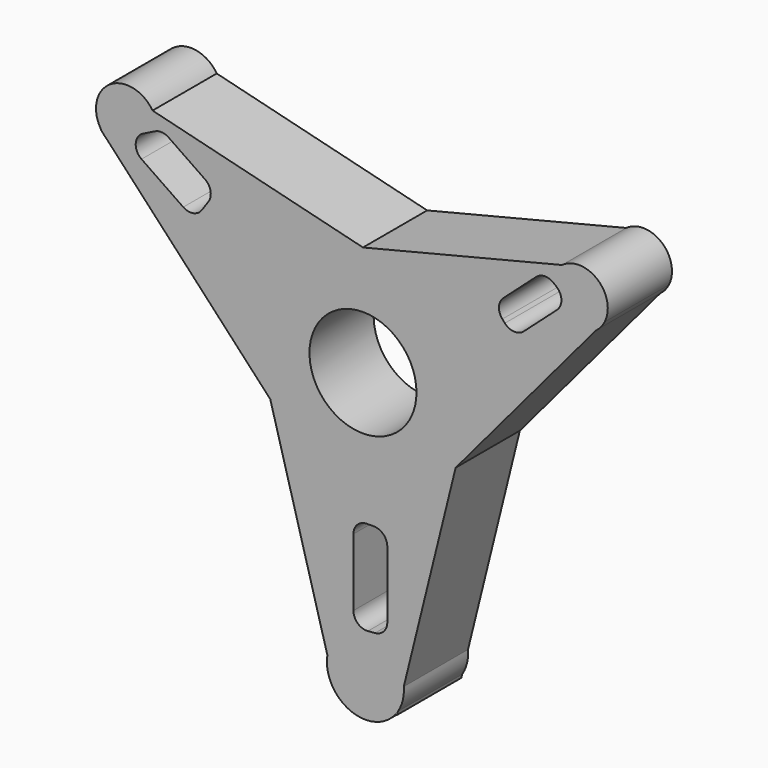
from build123d import *

# Parameters (mm, degrees)
F1_DEPTH = 30


with BuildPart() as f1:
    # F0 (on Front) → F1 (new body)
    with BuildSketch(Plane.XZ):
        with BuildLine():
            ThreePointArc((0, 20), (14.1421356237, 14.1421356237), (20, 0))
            ThreePointArc((20, 0), (19.3185165258, -5.1763809021), (17.3205080757, -10))
            Line((17.3205080757, -10), (34.6410161514, -20))
            ThreePointArc((34.6410161514, -20), (38.6370330516, -10.3527618041), (40, 0))
            ThreePointArc((40, 0), (28.2842712475, 28.2842712475), (0, 40))
            Line((0, 40), (0, 20))
        make_face()
        with BuildLine():
            ThreePointArc((-17.3205080757, -10), (-17.3205080757, 10), (0, 20))
            Line((0, 20), (0, 40))
            ThreePointArc((0, 40), (-34.6410161514, 20), (-34.6410161514, -20))
            Line((-34.6410161514, -20), (-17.3205080757, -10))
        make_face()
        with BuildLine():
            Line((34.6410161514, -20), (17.3205080757, -10))
            ThreePointArc((17.3205080757, -10), (0, -20), (-17.3205080757, -10))
            Line((-17.3205080757, -10), (-34.6410161514, -20))
            ThreePointArc((-34.6410161514, -20), (0, -40), (34.6410161514, -20))
        make_face()
        with BuildLine():
            Line((0, 41.2080923802), (0, 40))
            ThreePointArc((0, 40), (28.2842712475, 28.2842712475), (40, 0))
            ThreePointArc((40, 0), (38.6370330516, -10.3527618041), (34.6410161514, -20))
            Line((34.6410161514, -20), (87.0980406655, 42.2419230739))
            Line((87.0980406655, 42.2419230739), (90.3795282046, 46.1355120998))
            ThreePointArc((90.3795282046, 46.1355120998), (87.6773976066, 59.169459769), (74.3740901327, 59.6247748962))
            Line((74.3740901327, 59.6247748962), (0, 41.2080923802))
        make_face()
        with BuildLine():
            Line((52.4982662547, 41.6528845414), (64.7469107295, 52.5891727206))
            ThreePointArc((64.7469107295, 52.5891727206), (67.9910950093, 53.8587463433), (71.2769777073, 52.7013683932))
            Line((71.2769777073, 52.7013683932), (72.3707372539, 51.7903524287))
            ThreePointArc((72.3707372539, 51.7903524287), (74.1700110257, 48.0343625239), (72.5008274506, 44.2187796768))
            Line((72.5008274506, 44.2187796768), (60.0961883513, 33.1432106023))
            ThreePointArc((60.0961883513, 33.1432106023), (56.4835428569, 31.8808899329), (53.0364212244, 33.5428205547))
            Line((53.0364212244, 33.5428205547), (52.0986563023, 34.5931174145))
            ThreePointArc((52.0986563023, 34.5931174145), (50.8363356329, 38.2057629089), (52.4982662547, 41.6528845414))
        make_face(mode=Mode.SUBTRACT)
        with BuildLine():
            ThreePointArc((-34.6410161514, -20), (-34.6410161514, 20), (0, 40))
            Line((0, 40), (0, 41.2080923802))
            Line((0, 41.2080923802), (-78.648495238, 60.6832128768))
            ThreePointArc((-78.648495238, 60.6832128768), (-94.5007627814, 64.1577360912), (-97.9752859957, 48.3054685478))
            ThreePointArc((-97.9752859957, 48.3054685478), (-97.665545753, 47.846597899), (-97.3340342886, 47.4032002904))
            Line((-97.3340342886, 47.4032002904), (-96.0369097456, 46.008621628))
            Line((-96.0369097456, 46.008621628), (-34.6410161514, -20))
        make_face()
        with BuildLine():
            ThreePointArc((-77.7310128404, 54.1562976769), (-75.1574240307, 54.6650806206), (-72.680476913, 53.8008165284))
            Line((-72.680476913, 53.8008165284), (-59.060121913, 44.459391182))
            ThreePointArc((-59.060121913, 44.459391182), (-56.9727430098, 41.2519762953), (-57.7647280489, 37.5079917015))
            Line((-57.7647280489, 37.5079917015), (-60.2141910125, 33.9365286874))
            ThreePointArc((-60.2141910125, 33.9365286874), (-63.4216058992, 31.8491497842), (-67.1655904929, 32.6411348232))
            Line((-67.1655904929, 32.6411348232), (-82.7790425629, 43.3495118745))
            ThreePointArc((-82.7790425629, 43.3495118745), (-84.9387005193, 47.8239642372), (-82.173572874, 51.9517863676))
            Line((-82.173572874, 51.9517863676), (-77.7310128404, 54.1562976769))
        make_face(mode=Mode.SUBTRACT)
        with BuildLine():
            Line((15.259499846, -98.3324913068), (34.6410161514, -20))
            ThreePointArc((34.6410161514, -20), (0, -40), (-34.6410161514, -20))
            Line((-34.6410161514, -20), (-13.3078921314, -97.283666792))
            ThreePointArc((-13.3078921314, -97.283666792), (-4.9285276728, -112.6524822668), (12.0922385211, -108.5649700645))
            ThreePointArc((12.0922385211, -108.5649700645), (12.5958279162, -107.9061499031), (13.0606398786, -107.2194213368))
            ThreePointArc((13.0606398786, -107.2194213368), (14.8854843554, -102.9554429256), (15.259499846, -98.3324913068))
        make_face()
        with BuildLine():
            Line((-3.5689128563, -79.4438733363), (-3.5689128563, -54.2279011791))
            ThreePointArc((-3.5689128563, -54.2279011791), (-2.1044467622, -50.6923672732), (1.4310871437, -49.2279011791))
            Line((1.4310871437, -49.2279011791), (4.0947309509, -49.2279011791))
            ThreePointArc((4.0947309509, -49.2279011791), (7.6302648568, -50.6923672732), (9.0947309509, -54.2279011791))
            Line((9.0947309509, -54.2279011791), (9.0947309509, -79.2279011791))
            ThreePointArc((9.0947309509, -79.2279011791), (7.77035378, -82.6175614598), (4.4988122236, -84.2115462633))
            Line((4.4988122236, -84.2115462633), (1.8351684164, -84.4275184205))
            ThreePointArc((1.8351684164, -84.4275184205), (-1.9585731369, -83.1194961654), (-3.5689128563, -79.4438733363))
        make_face(mode=Mode.SUBTRACT)
        with BuildLine():
            Line((90.3795282046, 46.1355120998), (87.0980406655, 42.2419230739))
            ThreePointArc((87.0980406655, 42.2419230739), (88.972176183, 43.9920167775), (90.3795282046, 46.1355120998))
        make_face()
        with BuildLine():
            ThreePointArc((-97.3340342886, 47.4032002904), (-96.714454385, 46.6789538991), (-96.0369097456, 46.008621628))
            Line((-96.0369097456, 46.008621628), (-97.3340342886, 47.4032002904))
        make_face()
        with BuildLine():
            Line((12.7462329479, -108.4901309023), (13.0606398786, -107.2194213368))
            ThreePointArc((13.0606398786, -107.2194213368), (12.5958279162, -107.9061499031), (12.0922385211, -108.5649700645))
            ThreePointArc((12.0922385211, -108.5649700645), (12.4192921076, -108.5280431092), (12.7462329479, -108.4901309023))
        make_face()
        with BuildLine():
            Line((-98.0437887158, 48.1662791983), (-97.3340342886, 47.4032002904))
            ThreePointArc((-97.3340342886, 47.4032002904), (-97.665545753, 47.846597899), (-97.9752859957, 48.3054685478))
            ThreePointArc((-97.9752859957, 48.3054685478), (-98.0095620647, 48.2358860336), (-98.0437887158, 48.1662791983))
        make_face()
    extrude(amount=F1_DEPTH)


solid = f1.part
